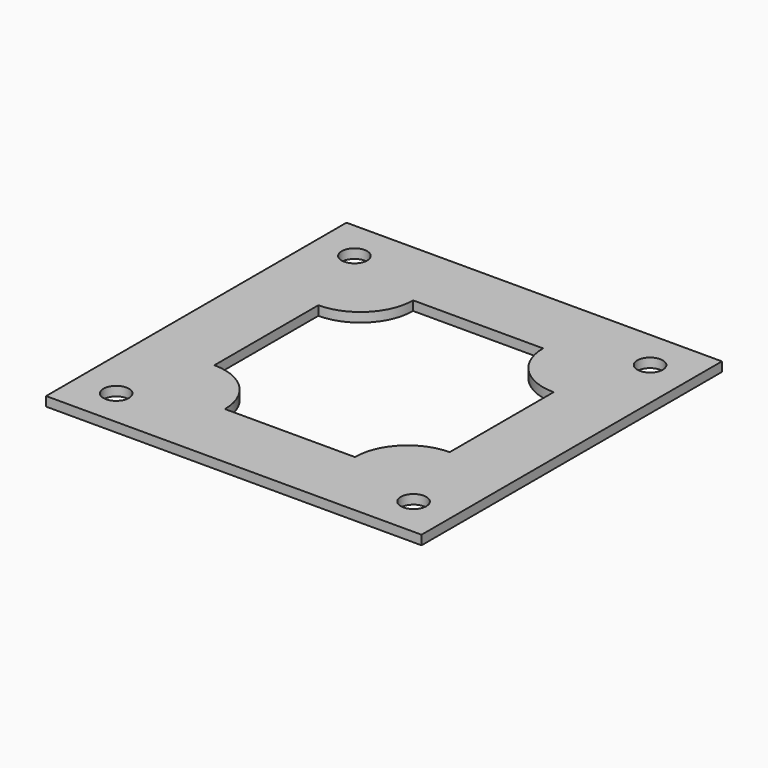
from build123d import *

# Parameters (mm, degrees)
F0_W     = 56.134
F0_H     = 56.134
F0_R     = 1.905
F1_DEPTH = 1.397
F3_DEPTH = 25.4


with BuildPart() as f1:
    # F0 (on Top) → F1 (new body)
    with BuildSketch(Plane.XY):
        with Locations((-28.067, 28.067)):
            Rectangle(F0_W, F0_H)
        with Locations((-50.165, 5.639749)):
            Circle(F0_R, mode=Mode.SUBTRACT)
        with Locations((-5.969, 5.969)):
            Circle(F0_R, mode=Mode.SUBTRACT)
        with Locations((-50.165, 50.165)):
            Circle(F0_R, mode=Mode.SUBTRACT)
        with Locations((-5.969, 50.165)):
            Circle(F0_R, mode=Mode.SUBTRACT)
    extrude(amount=F1_DEPTH)

    # F2 (on face) → F3 (cut)
    with BuildSketch(Plane.XY.offset(1.397)):
        with BuildLine():
            Line((-18.3515, 45.6565), (-37.7825, 45.6565))
            ThreePointArc((-37.7825, 45.6565), (-40.088741, 40.088741), (-45.6565, 37.7825))
            Line((-45.6565, 37.7825), (-45.6565, 18.3515))
            ThreePointArc((-45.6565, 18.3515), (-40.088741, 16.045259), (-37.7825, 10.4775))
            Line((-37.7825, 10.4775), (-18.3515, 10.4775))
            ThreePointArc((-18.3515, 10.4775), (-16.045259, 16.045259), (-10.4775, 18.3515))
            Line((-10.4775, 18.3515), (-10.4775, 37.7825))
            ThreePointArc((-10.4775, 37.7825), (-16.045259, 40.088741), (-18.3515, 45.6565))
        make_face()
    extrude(amount=-F3_DEPTH, mode=Mode.SUBTRACT)


solid = f1.part
